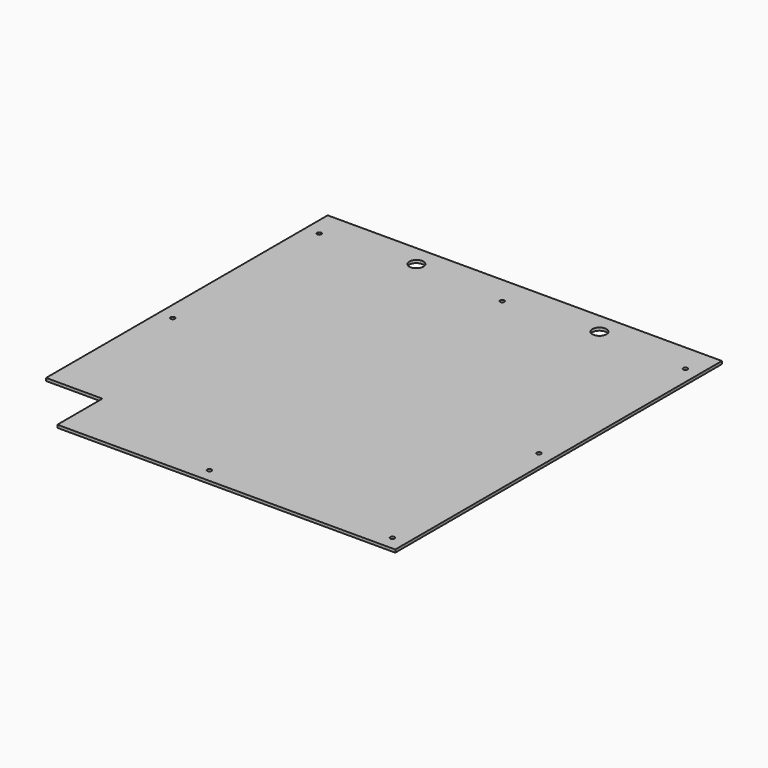
from build123d import *

# Parameters (mm, degrees)
F0_R     = 1.905
F0_R_2   = 6.35
F1_DEPTH = 2.54


with BuildPart() as f1:
    # F0 (on Top) → F1 (new body)
    with BuildSketch(Plane.XY):
        Polygon((-127, -177.8), (177.8, -177.8), (177.8, 190.5), (-177.8, 190.5), (-177.8, -127), (-127, -127), align=None)
        with Locations((-165.1, 0)):
            Circle(F0_R, mode=Mode.SUBTRACT)
        with Locations((0, -165.1)):
            Circle(F0_R, mode=Mode.SUBTRACT)
        with Locations((165.1, -165.1)):
            Circle(F0_R, mode=Mode.SUBTRACT)
        with Locations((165.1, 0)):
            Circle(F0_R, mode=Mode.SUBTRACT)
        with Locations((-165.1, 165.1)):
            Circle(F0_R, mode=Mode.SUBTRACT)
        with Locations((-82.55, 171.45)):
            Circle(F0_R_2, mode=Mode.SUBTRACT)
        with Locations((0, 165.1)):
            Circle(F0_R, mode=Mode.SUBTRACT)
        with Locations((82.55, 171.45)):
            Circle(F0_R_2, mode=Mode.SUBTRACT)
        with Locations((165.1, 165.1)):
            Circle(F0_R, mode=Mode.SUBTRACT)
    extrude(amount=F1_DEPTH)


solid = f1.part
